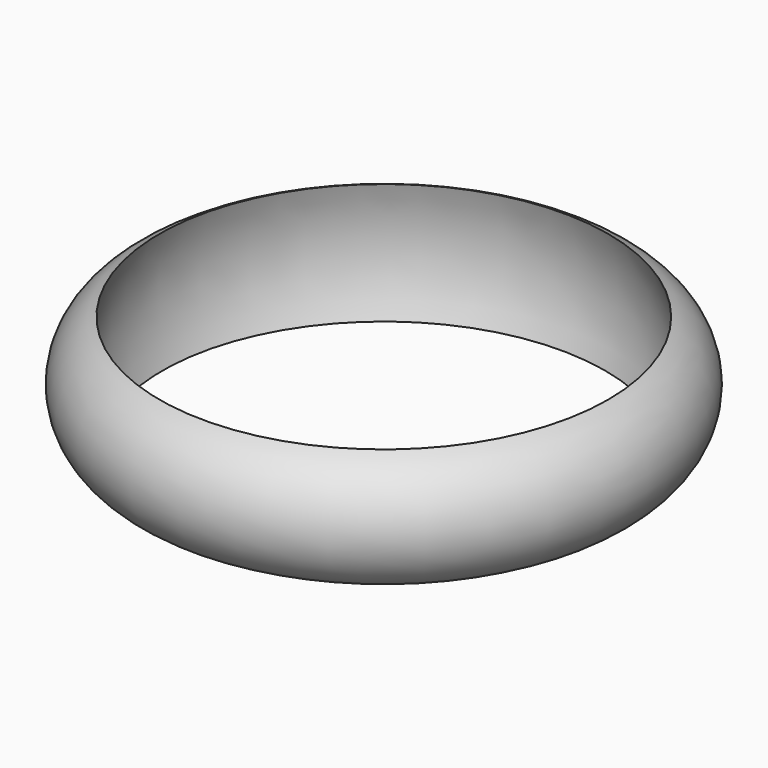
from build123d import *


with BuildPart() as f1:
    # F0 (on Front) → F1 (revolve)
    with BuildSketch(Plane.XZ):
        with BuildLine():
            ThreePointArc((15.081446, 2.448286), (15.764396, -1.585949), (14.885582, -5.582093))
            ThreePointArc((14.885582, -5.582093), (17.74298, -1.634208), (15.081446, 2.448286))
        make_face()
    revolve(axis=Axis((0, 0, -0.391726), (0, 0, -1)))


solid = f1.part
